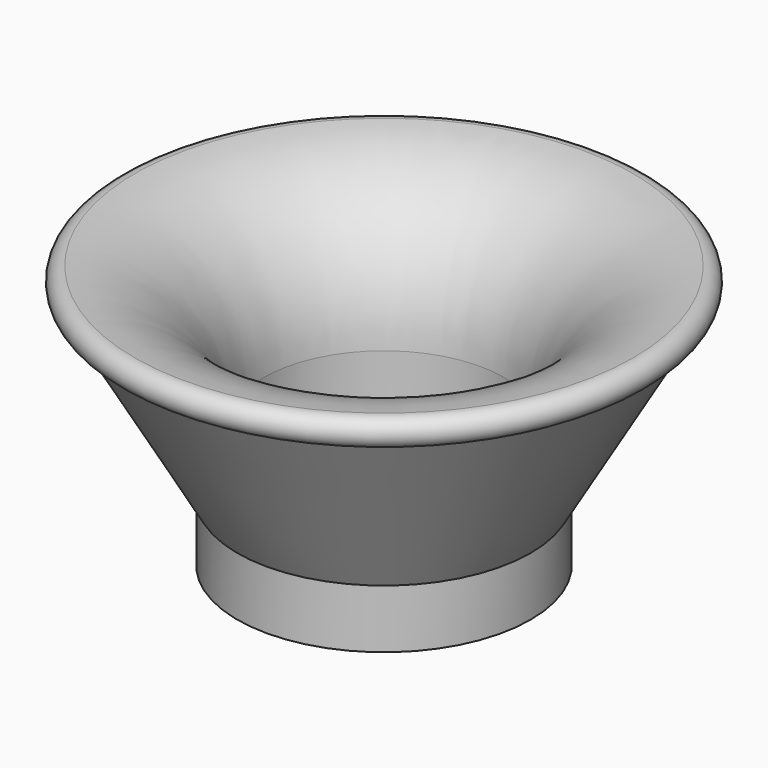
from build123d import *


with BuildPart() as f1:
    # F0 (on Front) → F1 (revolve)
    with BuildSketch(Plane.XZ):
        with BuildLine():
            Line((6.4897, 6.858), (6.4897, 0))
            Line((6.4897, 0), (7.9375, 0))
            Line((7.9375, 0), (7.9375, 3.175))
            Line((7.9375, 3.175), (13.49375, 12.789353))
            ThreePointArc((13.49375, 12.789353), (14.2875, 13.53778), (13.49375, 14.286206))
            ThreePointArc((13.49375, 14.286206), (8.516834, 11.962776), (6.4897, 6.858))
        make_face()
    revolve(axis=Axis((0, 0, 5.572326), (0, 0, 1)))


solid = f1.part
